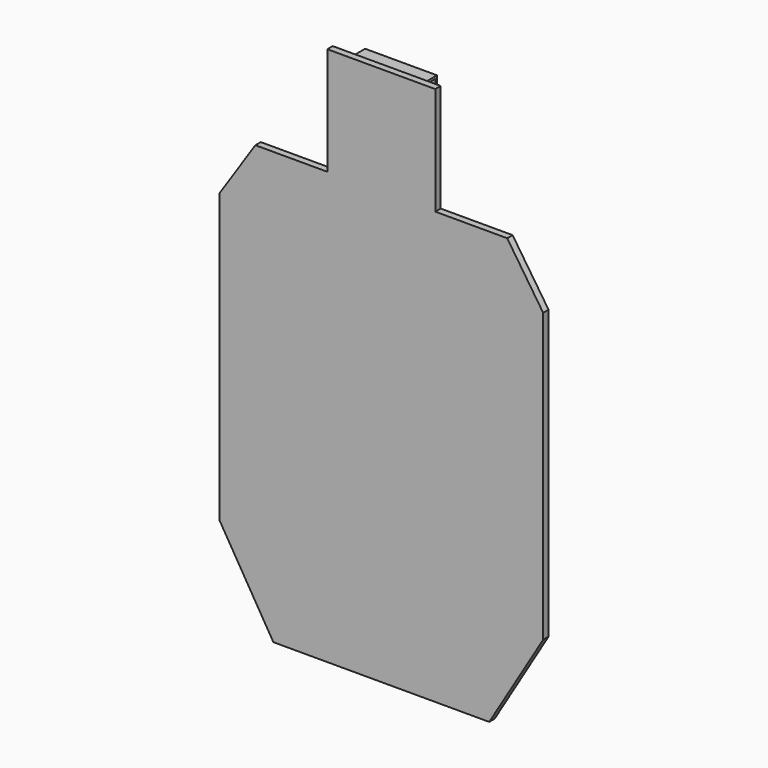
from build123d import *

# Parameters (mm, degrees)
F0_W          = 152.4
F0_H          = 152.4
F1_DEPTH      = 9.525
F3_DEPTH      = 50.8
F3_DEPTH_BACK = 50.8


with BuildPart() as f1:
    # F0 (on Front) → F1 (new body)
    with BuildSketch(Plane.XZ):
        with Locations((0, 268.69826)):
            Rectangle(F0_W, F0_H)
        Polygon((-76.2, 192.49826), (-177.8, 192.49826), (-228.6, 116.29826), (-228.6, -290.10174), (-152.4, -417.10174), (152.4, -417.10174), (228.6, -290.10174), (228.6, 116.29826), (177.8, 192.49826), (76.2, 192.49826), align=None)
    extrude(amount=F1_DEPTH)

    # F2 (on Right) → F3 (join, two sides)
    with BuildSketch(Plane.YZ) as f3_sk:
        Polygon((22.225, 314.135931), (25.4, 314.135931), (25.4, 339.535931), (0, 339.535931), (0, 314.135931), (3.175, 314.135931), (3.175, 336.360931), (22.225, 336.360931), align=None)
    extrude(amount=F3_DEPTH)
    extrude(f3_sk.sketch, amount=-F3_DEPTH_BACK)


solid = f1.part
